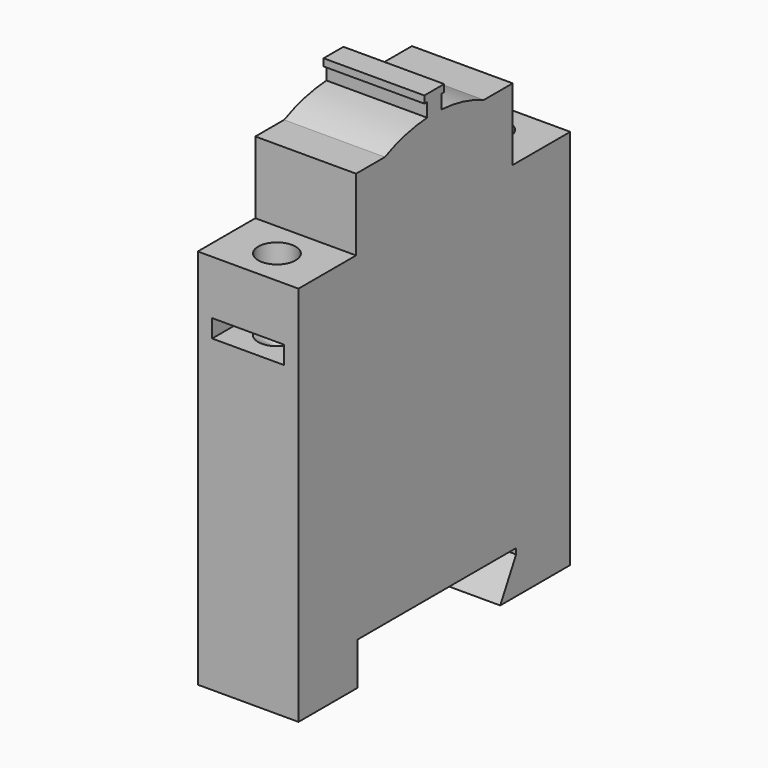
from build123d import *

# Parameters (mm, degrees)
F1_DEPTH       = 17.78
F0_W           = 3.175
F0_H           = 0.3175
F2_DEPTH       = 17.78
F5_D           = 6.6
F5_DEPTH       = 12.7
F5_TIP         = 1.9828400428
F5_ON_F3_D     = 6.6
F5_ON_F3_DEPTH = 12.7
F5_ON_F3_TIP   = 1.9828400428
F6_W           = 12.7
F6_H           = 3.175
F8_DEPTH       = 12.7
F7_W           = 12.7
F7_H           = 3.175
F9_DEPTH       = 12.7


with BuildPart() as f1:
    # F0 (on Right) → F1 (new body)
    with BuildSketch(Plane.YZ):
        Polygon((-11.4516578615, 40.005), (-17.8016578615, 40.005), (-17.8016578615, 27.305), (-30.5016578615, 27.305), (-30.5016578615, -40.005), (-17.5, -40.005), (-17.5, -33.505), (-17.5, -32.505), (17.5, -32.505), (17.5, -33.505), (14, -40.005), (29.4423421385, -40.005), (29.4423421385, 27.305), (16.7423421385, 27.305), (16.7423421385, 40.005), (10.3923421385, 40.005), (1.0578421385, 40.005), (-0.5296578615, 40.005), (-2.1171578615, 40.005), align=None)
    extrude(amount=F1_DEPTH)

    # F0 (on Right) → F2 (join, through all)
    with BuildSketch(Plane.YZ):
        with BuildLine():
            ThreePointArc((10.3923421385, 40.005), (5.8318480853, 41.5948737402), (1.0578421385, 42.3260862531))
            Line((1.0578421385, 42.3260862531), (1.0578421385, 40.005))
            Line((1.0578421385, 40.005), (10.3923421385, 40.005))
        make_face()
        with BuildLine():
            Line((-2.1171578615, 42.3260862531), (-2.1171578615, 40.005))
            Line((-2.1171578615, 40.005), (-0.5296578615, 40.005))
            Line((-0.5296578615, 40.005), (1.0578421385, 40.005))
            Line((1.0578421385, 40.005), (1.0578421385, 42.3260862531))
            ThreePointArc((1.0578421385, 42.3260862531), (-0.5296578615, 42.3739277182), (-2.1171578615, 42.3260862531))
        make_face()
        with BuildLine():
            ThreePointArc((-2.1171578615, 42.3260862531), (-6.8911638083, 41.5948737402), (-11.4516578615, 40.005))
            Line((-11.4516578615, 40.005), (-2.1171578615, 40.005))
            Line((-2.1171578615, 40.005), (-2.1171578615, 42.3260862531))
        make_face()
        with BuildLine():
            Line((-2.1171578615, 44.7675), (-2.1171578615, 42.3260862531))
            ThreePointArc((-2.1171578615, 42.3260862531), (-0.5296578615, 42.3739277182), (1.0578421385, 42.3260862531))
            Line((1.0578421385, 42.3260862531), (1.0578421385, 44.7675))
            Line((1.0578421385, 44.7675), (-2.1171578615, 44.7675))
        make_face()
        with Locations((-0.5296578615, 44.92625)):
            Rectangle(F0_W, F0_H)
        Polygon((-2.7487089392, 44.7675), (-2.1171578615, 44.7675), (-2.1171578615, 45.085), (1.0578421385, 45.085), (1.0578421385, 44.7675), (1.628424623, 44.7675), (1.628424623, 46.0375), (-2.7487089392, 46.0375), align=None)
    extrude(amount=F2_DEPTH)

    # F5
    with Locations(Plane.XY.offset(27.305)):
        with Locations((8.89, 23.0923421385)):
            Hole(F5_D / 2, depth=F5_DEPTH)
            with Locations((0, 0, -(F5_DEPTH + F5_TIP / 2))):  # 118° drill point
                Cone(0, F5_D / 2, F5_TIP, mode=Mode.SUBTRACT)

    # F5 on F3
    with Locations(Plane.XY.offset(27.305)):
        with Locations((8.89, -24.1516578615)):
            Hole(F5_ON_F3_D / 2, depth=F5_ON_F3_DEPTH)
            with Locations((0, 0, -(F5_ON_F3_DEPTH + F5_ON_F3_TIP / 2))):  # 118° drill point
                Cone(0, F5_ON_F3_D / 2, F5_ON_F3_TIP, mode=Mode.SUBTRACT)

    # F6 (on face) → F8 (cut)
    with BuildSketch(Plane.XZ.offset(30.5016578615)):
        with Locations((8.89, 16.1925)):
            Rectangle(F6_W, F6_H)
    extrude(amount=-F8_DEPTH, mode=Mode.SUBTRACT)

    # F7 (on face) → F9 (cut)
    with BuildSketch(Plane(origin=(0, 29.4423421385, 0), x_dir=(-1, 0, 0), z_dir=(0, 1, 0))):
        with Locations((-8.89, 16.1925)):
            Rectangle(F7_W, F7_H)
    extrude(amount=-F9_DEPTH, mode=Mode.SUBTRACT)


solid = f1.part
